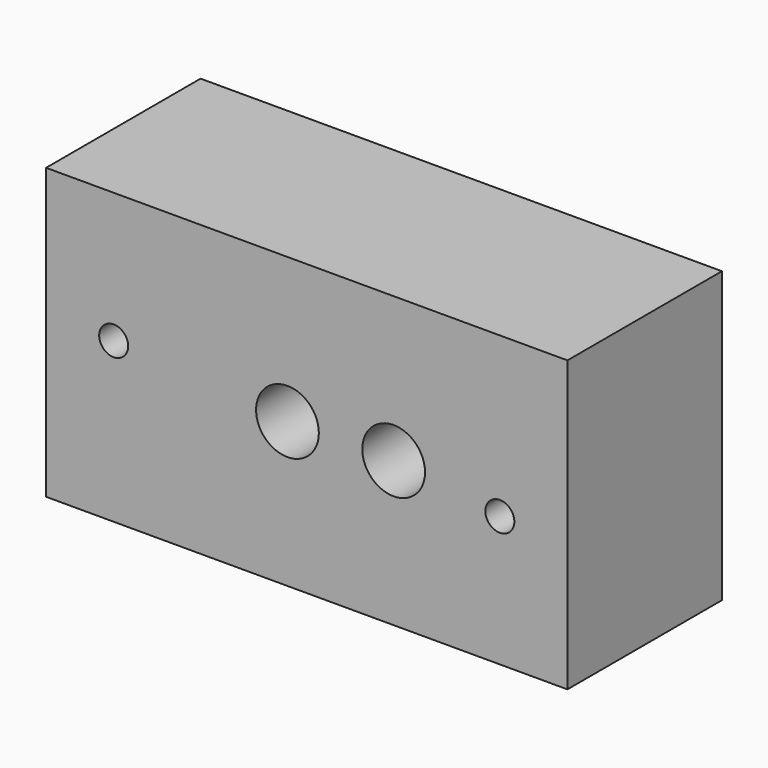
from build123d import *

# Parameters (mm, degrees)
F0_W     = 54
F0_H     = 30
F0_R     = 1.5
F0_R_2   = 3.25
F1_DEPTH = 20
F3_R     = 2.5
F4_DEPTH = 16
F6_R     = 4.45
F7_DEPTH = 8
F5_R     = 3.25
F8_DEPTH = 8


with BuildPart() as f1:
    # F0 (on Front) → F1 (new body)
    with BuildSketch(Plane.XZ):
        with Locations((27, 15)):
            Rectangle(F0_W, F0_H)
        with Locations((47, 13.5)):
            Circle(F0_R, mode=Mode.SUBTRACT)
        with Locations((7, 16.5)):
            Circle(F0_R, mode=Mode.SUBTRACT)
        with Locations((25, 15)):
            Circle(F0_R_2, mode=Mode.SUBTRACT)
        with Locations((36, 15)):
            Circle(F0_R_2, mode=Mode.SUBTRACT)
    extrude(amount=F1_DEPTH)

    # F3 (on face) → F4 (cut)
    with BuildSketch(Plane(origin=(0, 0, 0), x_dir=(1, 0, 0), z_dir=(0, 0, -1))):
        with Locations((36, 10)):
            Circle(F3_R)
    extrude(amount=-F4_DEPTH, mode=Mode.SUBTRACT)

    # F6 (on face) → F7 (cut)
    with BuildSketch(Plane(origin=(0, 0, 0), x_dir=(-1, 0, 0), z_dir=(0, 1, 0))):
        with Locations((-25, 15)):
            Circle(F6_R)
    extrude(amount=-F7_DEPTH, mode=Mode.SUBTRACT)

    # F5 (on face) → F8 (join)
    with BuildSketch(Plane(origin=(0, 0, 0), x_dir=(-1, 0, 0), z_dir=(0, 1, 0))):
        with Locations((-36, 15)):
            Circle(F5_R)
    extrude(amount=-F8_DEPTH)


solid = f1.part
